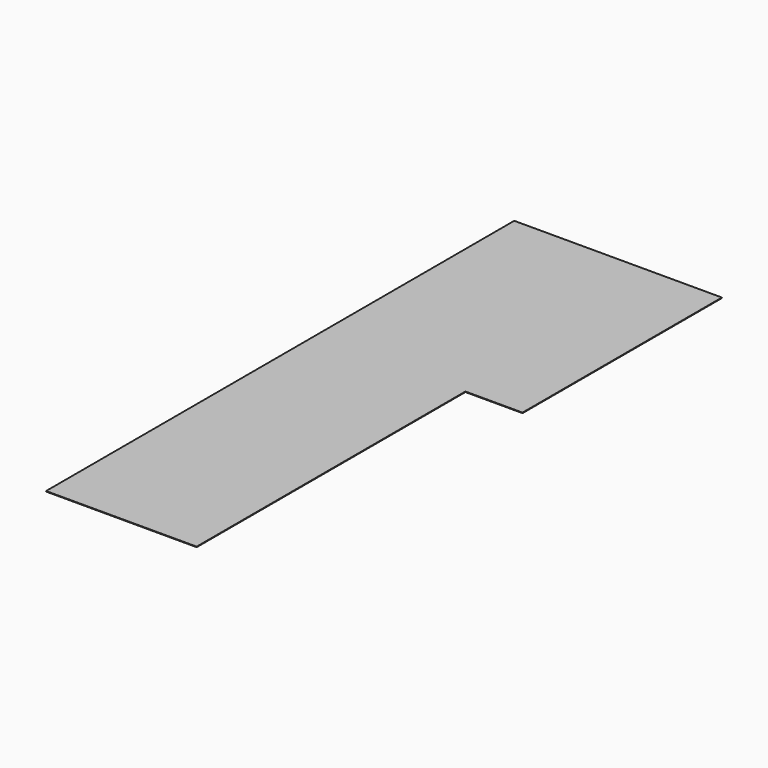
from build123d import *

# Parameters (mm, degrees)
F0_W     = 170
F0_H     = 220
F0_H_2   = 82
F1_DEPTH = 1


with BuildPart() as f1:
    # F0 (on Top) → F1 (new body)
    with BuildSketch(Plane.XY):
        Polygon((36.485837, 841.869394), (-363.514163, 841.869394), (-363.514163, 361.869394), (-193.514163, 361.869394), (-73.514163, 361.869394), (36.485837, 361.869394), align=None)
        with Locations((-278.514163, 251.869394)):
            Rectangle(F0_W, F0_H)
        Polygon((-73.514163, 361.869394), (-193.514163, 361.869394), (-193.514163, 141.869394), (-193.514163, 59.869394), (-73.514163, 59.869394), align=None)
        with Locations((-278.514163, 100.869394)):
            Rectangle(F0_W, F0_H_2)
        Polygon((-193.514163, 59.869394), (-363.514163, 59.869394), (-363.514163, -285.130606), (-73.514163, -285.130606), (-73.514163, 59.869394), align=None)
    extrude(amount=F1_DEPTH)


solid = f1.part
